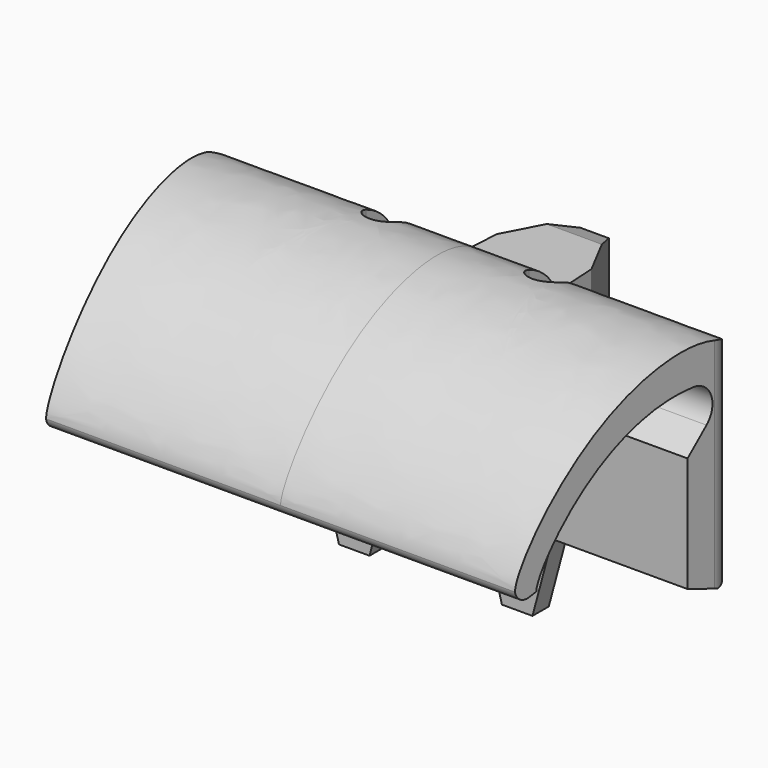
from build123d import *

# Parameters (mm, degrees)
PAD_DEPTH            = 25
PAD001_DEPTH         = 17
POCKET_DEPTH         = 22.033273
SKETCH010_W          = 4
SKETCH010_H          = 4
POCKET001_DEPTH      = 6
POCKET002_DEPTH      = 0.001
POCKET002_DEPTH_BACK = -57.785827
POCKET003_DEPTH      = 6.033273
PAD002_DEPTH         = 2


with BuildPart() as part:
    # Sketch006 → Pad (new body, symmetric)
    with BuildSketch(Plane(origin=(32.784826, 3e-06, 0), x_dir=(0, 1, 0), z_dir=(1, 0, 0))):
        with BuildLine():
            Line((4, 0), (4, 15))
            add(Edge.make_bspline(
                [(4, 15), (3.756943, 23.438381), (-13.475633, 23), (-22.552623, 10.026941), (-22.552623, 8.208483)],
                knots=[0, 0, 0, 0, 0.5, 1, 1, 1, 1], degree=3))
            ThreePointArc((-22.552623, 8.208483), (-22.009076, 7.354328), (-21.013898, 7.168194))
            Line((-21.013898, 7.168194), (-20.203391, 7.353433))
            add(Edge.make_bspline(
                [(-3, 18.5), (-13.258017, 19), (-20.203391, 9.17189), (-20.203391, 7.353433)],
                knots=[0, 0, 0, 0, 1, 1, 1, 1], degree=3))
            ThreePointArc((-3, 18.5), (-0.921271, 17.111038), (-1.40901, 14.65901))
            Line((-1.40901, 14.65901), (-3.5, 12.568019))
            Line((-3.5, 12.568019), (-3.5, 1.273896))
            Line((-3.5, 1.273896), (0, 0))
            Line((0, 0), (4, 0))
        make_face()
    extrude(amount=PAD_DEPTH, both=True)

    # Sketch008 (on Face10 of Pad) → Pad001 (join)
    with BuildSketch(Plane(origin=(32.784826, 3e-06, 0), x_dir=(0, 1, 0), z_dir=(0, 0, -1))):
        Polygon((3.05, 6.5), (3.05, -6.5), (4.6, -4.95), (9.8, -4.65), (16, -1.4), (16, 1.4), (9.8, 4.65), (4.6, 4.95), align=None)
    extrude(amount=-PAD001_DEPTH)

    # Sketch009 (on Face5 of Pad001) → Pocket (cut, through all)
    with BuildSketch(Plane(origin=(32.784826, 3e-06, 0), x_dir=(0, 1, 0), z_dir=(0, 0, -1))):
        with BuildLine():
            ThreePointArc((1.396424, -7.9), (-1.4, -8), (1.396424, -8.1))
            Line((4, -8.1), (1.396424, -8.1))
            Line((4, -7.9), (4, -8.1))
            Line((1.396424, -7.9), (4, -7.9))
        make_face()
        with BuildLine():
            ThreePointArc((1.396424, 8.1), (-1.4, 8), (1.396424, 7.9))
            Line((4, 7.9), (1.396424, 7.9))
            Line((4, 8.1), (4, 7.9))
            Line((1.396424, 8.1), (4, 8.1))
        make_face()
        with BuildLine():
            Line((-34, -26), (4, -26))
            Line((4, -26), (4, -12))
            Line((4, -12), (1.8, -23.5))
            ThreePointArc((-0.5, -25), (0.872953, -24.591861), (1.8, -23.5))
            Line((-0.5, -25), (-34, -22))
            Line((-34, -22), (-34, -26))
        make_face()
        with BuildLine():
            Line((-34, 26), (4, 26))
            Line((4, 26), (4, 12))
            Line((1.8, 23.5), (4, 12))
            ThreePointArc((1.8, 23.5), (0.872953, 24.591861), (-0.5, 25))
            Line((-34, 22), (-0.5, 25))
            Line((-34, 26), (-34, 22))
        make_face()
    extrude(amount=-POCKET_DEPTH, mode=Mode.SUBTRACT)

    # Sketch010 (on Face12 of Pocket) → Pocket001 (cut)
    with BuildSketch(Plane(origin=(32.784826, 4.000003, 0), x_dir=(0, 0, 1), z_dir=(0, 1, 0))):
        with Locations((7.5, 8)):
            Rectangle(SKETCH010_W, SKETCH010_H)
        with Locations((7.5, -8)):
            Rectangle(SKETCH010_W, SKETCH010_H)
    extrude(amount=-POCKET001_DEPTH, mode=Mode.SUBTRACT)

    # Sketch → Pocket002 (cut, two sides)
    with BuildSketch(Plane.YZ) as pocket002_sk:
        Polygon((10.793383, 17.986964), (19, 17.986964), (19, 15), align=None)
        Polygon((10.793383, -0.986984), (19, -0.986984), (19, 1.99998), align=None)
    extrude(amount=-POCKET002_DEPTH, mode=Mode.SUBTRACT)
    extrude(pocket002_sk.sketch, amount=-POCKET002_DEPTH_BACK, mode=Mode.SUBTRACT)

    # Sketch011 (on Face44 of Pocket002) → Pocket003 (cut, through all)
    with BuildSketch(Plane(origin=(32.784826, 3e-06, 16), x_dir=(0, 1, 0), z_dir=(0, 0, -1))):
        with BuildLine():
            ThreePointArc((0, 9.65), (-1.65, 8), (0, 6.35))
            Line((5, 6.35), (0, 6.35))
            Line((5, 9.65), (5, 6.35))
            Line((0, 9.65), (5, 9.65))
        make_face()
        with BuildLine():
            ThreePointArc((0, -6.35), (-1.65, -8), (0, -9.65))
            Line((5, -9.65), (0, -9.65))
            Line((5, -6.35), (5, -9.65))
            Line((0, -6.35), (5, -6.35))
        make_face()
    extrude(amount=-POCKET003_DEPTH, mode=Mode.SUBTRACT)

    # Sketch012 (on Face45 of Pocket003) → Pad002 (join)
    with BuildSketch(Plane(origin=(32.784827, -3.499997, 0), x_dir=(0, 0, -1), z_dir=(0, -1, 0))):
        Polygon((-2.125754, 11.677289), (6, 9.5), (6, 6.5), (-2.125754, 4.322711), align=None)
        Polygon((-2.125754, -4.322711), (6, -6.5), (6, -9.5), (-2.125754, -11.677289), align=None)
    extrude(amount=-PAD002_DEPTH)


solid = part.part
